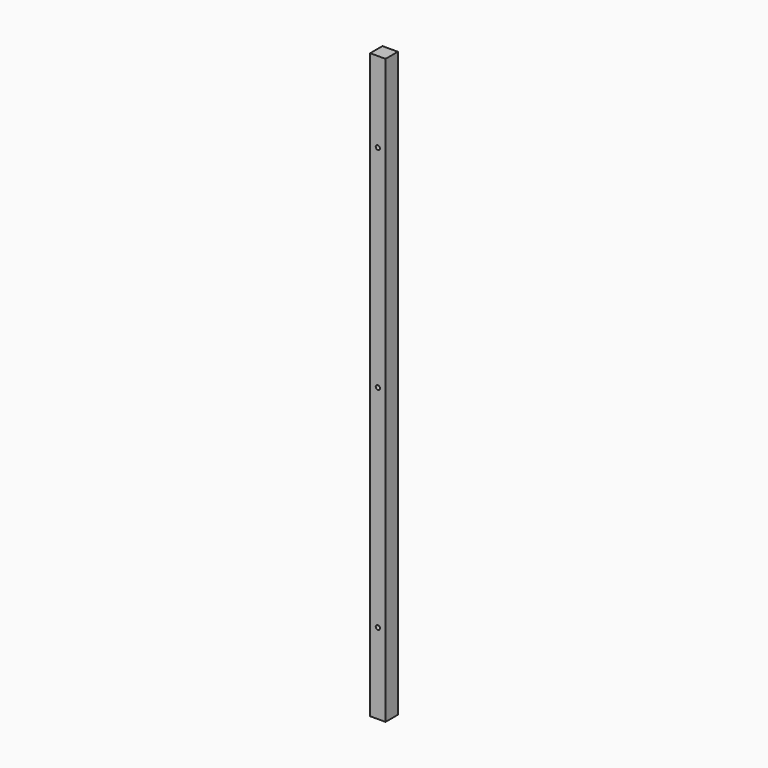
from build123d import *

# Parameters (mm, degrees)
F0_W           = 80
F0_H           = 80
F1_DEPTH       = 3040
F3_D           = 22
F3_DEPTH       = 100
F3_CBORE_D     = 50
F3_CBORE_DEPTH = 20


with BuildPart() as f1:
    # F0 (on Top) → F1 (new body)
    with BuildSketch(Plane.XY):
        with Locations((40, 40)):
            Rectangle(F0_W, F0_H)
    extrude(amount=F1_DEPTH)

    # F3
    with Locations(Plane(origin=(0, 80, 0), x_dir=(-1, 0, 0), z_dir=(0, 1, 0))):
        with Locations((-40, 2620), (-40, 420), (-40, 1520)):
            CounterBoreHole(F3_D / 2, F3_CBORE_D / 2, F3_CBORE_DEPTH, depth=F3_DEPTH)


solid = f1.part
